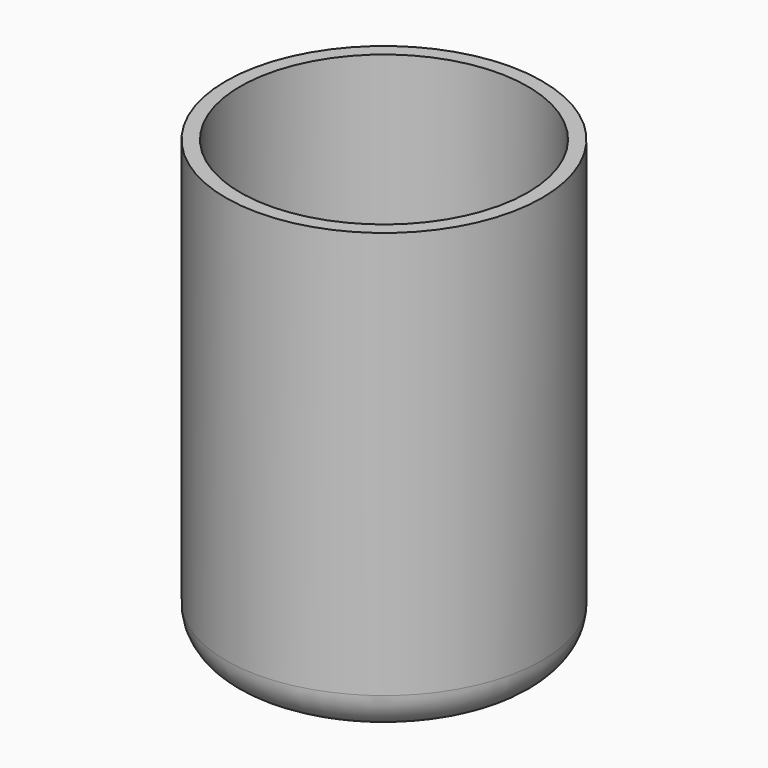
from build123d import *

# Parameters (mm, degrees)
F2_R     = 1.5
F3_DEPTH = 1


with BuildPart() as f1:
    # F0 (on Front) → F1 (revolve)
    with BuildSketch(Plane.XZ):
        with BuildLine():
            Line((0, 3), (0, 0))
            Line((0, 0), (25, 0))
            ThreePointArc((25, 0), (30.656854, 2.343146), (33, 8))
            Line((33, 8), (33, 93))
            Line((33, 93), (30, 93))
            Line((30, 93), (30, 8))
            ThreePointArc((30, 8), (28.535534, 4.464466), (25, 3))
            Line((25, 3), (0, 3))
        make_face()
    revolve(axis=Axis((0, 0, 7.581016), (0, 0, 1)))

    # F2 (on face) → F3 (join)
    with BuildSketch(Plane(origin=(0, 0, 0), x_dir=(1, 0, 0), z_dir=(0, 0, -1))):
        Circle(F2_R)
    extrude(amount=F3_DEPTH)


solid = f1.part
